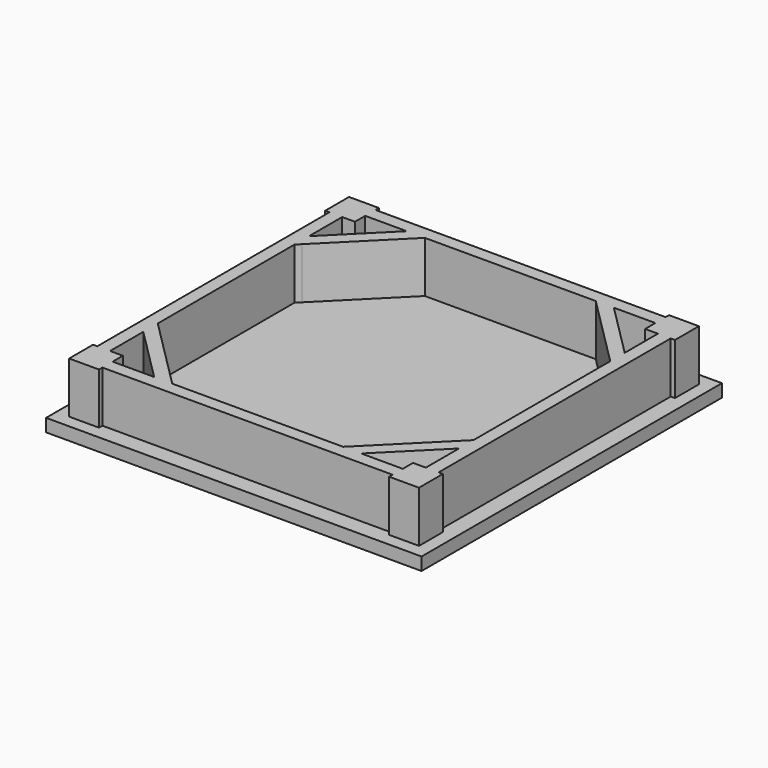
from build123d import *

# Parameters (mm, degrees)
F1_W     = 558.8
F1_H     = 558.8
F2_DEPTH = 19.05
F3_DEPTH = 76.2


with BuildPart() as f2:
    # F1 (on Top) → F2 (new body)
    with BuildSketch(Plane.XY):
        with Locations((-279.4, 279.4)):
            Rectangle(F1_W, F1_H)
    extrude(amount=-F2_DEPTH)

    # F0 (on Top) → F3 (join)
    with BuildSketch(Plane.XY):
        Polygon((-495.3, 539.7500000002), (-508, 539.7500000002), (-539.75, 539.7500000002), (-539.75, 495.3), (-533.4, 495.3), (-514.35, 495.3), (-508, 495.3), (-495.3, 495.3), (-495.3, 514.3500000002), (-495.3, 533.4), align=None)
        Polygon((-539.75, 19.05), (-508, 19.05), (-495.3, 19.05), (-495.3, 25.4000000002), (-495.3, 44.45), (-495.3, 63.5), (-508, 63.5), (-514.35, 63.5), (-533.4, 63.5), (-539.75, 63.5), align=None)
        Polygon((-63.5, 19.05), (-50.8, 19.05), (-19.05, 19.05), (-19.05, 63.5), (-25.4000000002, 63.5), (-44.45, 63.5), (-50.8, 63.5), (-63.5, 63.5), (-63.5, 44.45), (-63.5, 25.4000000002), align=None)
        Polygon((-19.05, 539.7500000002), (-50.8, 539.7500000002), (-63.5, 539.7500000002), (-63.5, 533.4), (-63.5, 514.3500000002), (-63.5, 495.3), (-50.8, 495.3), (-44.45, 495.3), (-25.4000000002, 495.3), (-19.05, 495.3), align=None)
        Polygon((-44.45, 63.5), (-25.4000000002, 63.5), (-25.4000000002, 495.3), (-44.45, 495.3), (-44.45, 433.5276869632), (-44.45, 406.5869186), (-44.45, 152.2130814), (-44.45, 125.2723130368), align=None)
        Polygon((-63.5, 514.3500000002), (-63.5, 533.4), (-495.3, 533.4), (-495.3, 514.3500000002), (-433.5276869633, 514.3500000002), (-406.5869186002, 514.3500000002), (-152.2130814, 514.3500000002), (-125.2723130368, 514.3500000002), align=None)
        Polygon((-533.4, 495.3), (-533.4, 63.5), (-514.35, 63.5), (-514.35, 125.2723130368), (-514.35, 152.2130814), (-514.35, 406.5869186), (-514.35, 433.5276869632), (-514.35, 495.3), align=None)
        Polygon((-406.5869186002, 514.3500000002), (-433.5276869633, 514.3500000002), (-508, 439.8776869632), (-514.35, 433.5276869632), (-514.35, 406.5869186), (-508, 412.9369186), align=None)
        Polygon((-508, 118.9223130368), (-433.5276869632, 44.45), (-406.5869186, 44.45), (-508, 145.8630814), (-514.35, 152.2130814), (-514.35, 125.2723130368), align=None)
        Polygon((-152.2130814, 44.45), (-125.2723130368, 44.45), (-50.8, 118.9223130368), (-44.45, 125.2723130368), (-44.45, 152.2130814), (-50.8, 145.8630814), align=None)
        Polygon((-495.3, 25.4000000002), (-63.5, 25.4000000002), (-63.5, 44.45), (-125.2723130368, 44.45), (-152.2130814, 44.45), (-406.5869186, 44.45), (-433.5276869632, 44.45), (-495.3, 44.45), align=None)
        Polygon((-50.8, 439.8776869632), (-125.2723130368, 514.35), (-152.2130814, 514.3500000002), (-50.8, 412.9369186), (-44.45, 406.5869186), (-44.45, 433.5276869632), align=None)
    extrude(amount=F3_DEPTH)


solid = f2.part
